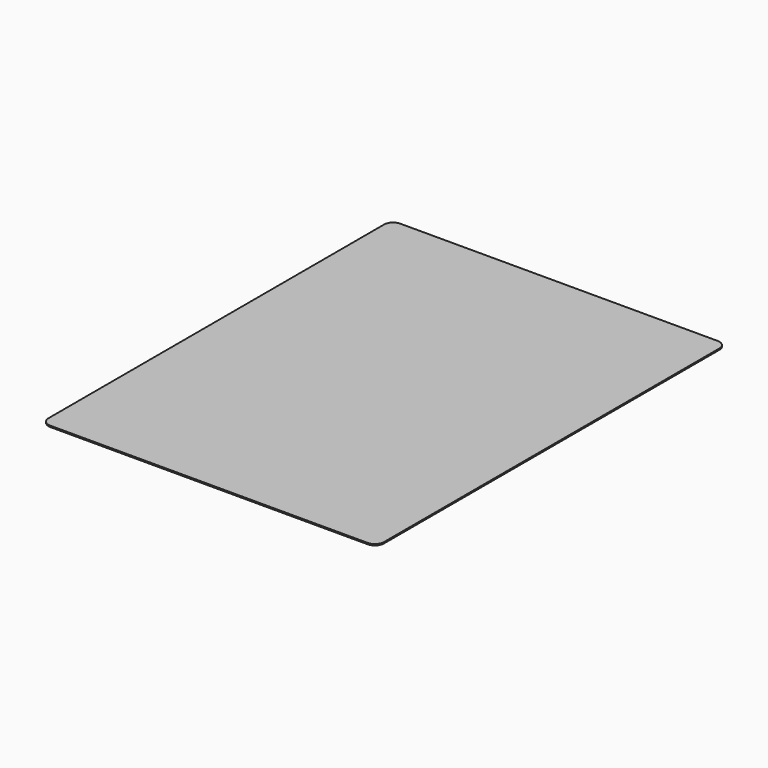
from build123d import *

# Parameters (mm, degrees)
BOX003_W     = 92
BOX003_H     = 120
BOX003_DEPTH = 0.35
FILLET004_R  = 2.5
FILLET005_R  = 2.5
FILLET006_R  = 2.5
FILLET007_R  = 2.5


with BuildPart() as part:
    # Box003 → Box003 (new body)
    with BuildSketch(Plane(origin=(-21.75, -108.5, 10.2), x_dir=(1, 0, 0), z_dir=(0, 0, 1))):
        with Locations((46, 60)):
            Rectangle(BOX003_W, BOX003_H)
    extrude(amount=BOX003_DEPTH)

    # Fillet004
    fillet004_edges = [part.edges().sort_by_distance(p)[0] for p in [
        (-21.75, 11.5, 10.375),
    ]]
    fillet(fillet004_edges, radius=FILLET004_R)

    # Fillet005
    fillet005_edges = [part.edges().sort_by_distance(p)[0] for p in [
        (-21.75, -108.5, 10.375),
    ]]
    fillet(fillet005_edges, radius=FILLET005_R)

    # Fillet006
    fillet006_edges = [part.edges().sort_by_distance(p)[0] for p in [
        (70.25, -108.5, 10.375),
    ]]
    fillet(fillet006_edges, radius=FILLET006_R)

    # Fillet007
    fillet007_edges = [part.edges().sort_by_distance(p)[0] for p in [
        (70.25, 11.5, 10.375),
    ]]
    fillet(fillet007_edges, radius=FILLET007_R)


solid = part.part
